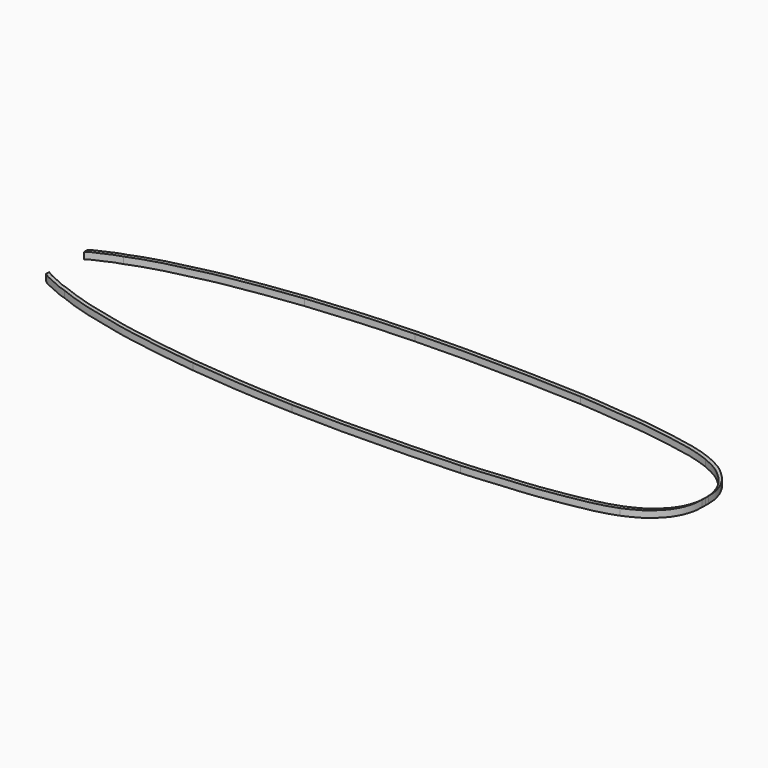
from build123d import *

# Parameters (mm, degrees)
F1_DEPTH = 25


with BuildPart() as f1:
    # F0 (on Top) → F1 (new body)
    with BuildSketch(Plane.XY):
        with BuildLine():
            Line((1680.0913779151, -571.6674201901), (1680.0774248615, -556.5697550774))
            add(Edge.make_bspline(
                [(1680.0774248615, -556.5697550774), (1679.959532706, -562.316875416), (1679.6427719948, -573.6815119363), (1677.9559973128, -589.6482367852), (1671.9416158112, -611.1937525038), (1665.7175358203, -630.2057384714), (1649.1999387753, -658.7888643928), (1634.19991008, -676.479779451), (1613.0698656847, -697.3833068317), (1589.168561335, -717.3172273642), (1557.042322142, -734.859485432), (1536.1277959476, -744.2282900222), (1525.8240908453, -748.8439046694)],
                knots=[0, 0, 0, 0, 0.0810522115, 0.1602959901, 0.2519108121, 0.3416965034, 0.4533023492, 0.5495072043, 0.6552927613, 0.7658251362, 0.884630944, 1, 1, 1, 1], degree=3))
            add(Edge.make_bspline(
                [(1525.8240908453, -748.8439046694), (1520.9143328422, -750.4920177967), (1510.6684952452, -753.9313521657), (1492.8886117624, -760.36139908), (1477.3550772596, -765.5186171491), (1460.6783442632, -768.5296377887), (1443.7541912337, -774.5896497238), (1426.4828431131, -776.3239099017), (1404.0685526248, -781.6651315049), (1367.3994007551, -788.3225763114), (1318.300808924, -797.4866814611), (1266.860132466, -804.7429770618), (1195.8736917115, -813.0319192887), (1152.1833674352, -815.541908763), (1096.6435090665, -821.3018918652), (1042.2588720968, -826.7735922357), (1008.4323175903, -828.9346523367), (991.9508308241, -829.9875968053)],
                knots=[0, 0, 0, 0, 0.0459056837, 0.0957974262, 0.1423705621, 0.1895049005, 0.2379350442, 0.285260399, 0.3396724785, 0.4098119199, 0.4907159265, 0.5750621704, 0.6713772105, 0.7482917328, 0.8331639502, 0.9187116102, 1, 1, 1, 1], degree=3))
            add(Edge.make_bspline(
                [(991.9508308241, -829.9875968053), (945.3347618176, -832.2467041737), (840.6711361721, -837.318911525), (597.3261368323, -840.7321202495), (496.8183550639, -840.977614608), (410.7138135756, -838.7205696222), (365.4399573872, -837.5338130547)],
                knots=[0, 0, 0, 0, 0.2514168302, 0.5644876875, 0.7710071796, 1, 1, 1, 1], degree=3))
            add(Edge.make_bspline(
                [(365.4399573872, -837.5338130547), (300.9920694953, -835.0287898915), (185.1527872494, -830.5262360496), (68.0175690605, -819.317919736), (2.3104109186, -813.3253669371), (-28.8509517839, -810.4834222151)],
                knots=[0, 0, 0, 0, 0.3973459993, 0.7141936978, 1, 1, 1, 1], degree=3))
            add(Edge.make_bspline(
                [(-28.8509517839, -810.4834222151), (-66.9724583954, -806.0046315132), (-140.8309261351, -797.3272037834), (-240.6082186036, -779.8814461057), (-325.5240634953, -767.1998298001), (-418.7926896131, -744.5692856785), (-475.2525690807, -731.7575140909), (-522.2780776943, -717.7608947511), (-567.7172627648, -703.9472926888), (-595.4583026837, -692.7045463144), (-609.1171294382, -687.1689670636)],
                knots=[0, 0, 0, 0, 0.15717668, 0.3045217721, 0.4423500794, 0.5860596972, 0.6983535216, 0.8003417202, 0.901694462, 1, 1, 1, 1], degree=3))
            add(Edge.make_bspline(
                [(-609.1171294382, -687.1689670636), (-619.9222350776, -684.0420639821), (-641.0395332321, -677.9303940328), (-667.6634247297, -663.4606444561), (-691.7272271694, -653.9900653187), (-708.2455744872, -645.7139702192), (-714.7001253353, -640.6102572147), (-717.5893870815, -638.3564808323)],
                knots=[0, 0, 0, 0, 0.2401836949, 0.4696628644, 0.6819727863, 0.8590310206, 1, 1, 1, 1], degree=3))
            Line((-717.5893870815, -638.3564808323), (-717.5893870815, -653.4535028888))
            add(Edge.make_bspline(
                [(-609.1171294382, -702.2659891202), (-619.9222350776, -699.1390860387), (-641.0395332321, -693.0274160894), (-667.6634247297, -678.5576665127), (-691.7272271694, -669.0870873753), (-708.2455744872, -660.8109922758), (-714.7001253353, -655.7072792713), (-717.5893870815, -653.4535028888)],
                knots=[0, 0, 0, 0, 0.2401836949, 0.4696628644, 0.6819727863, 0.8590310206, 1, 1, 1, 1], degree=3))
            add(Edge.make_bspline(
                [(-28.8509517839, -825.5804442717), (-66.9724583954, -821.1016535698), (-140.8309261351, -812.42422584), (-240.6082186036, -794.9784681623), (-325.5240634953, -782.2968518567), (-418.7926896131, -759.666307735), (-475.2525690807, -746.8545361475), (-522.2780776943, -732.8579168077), (-567.7172627648, -719.0443147453), (-595.4583026837, -707.801568371), (-609.1171294382, -702.2659891202)],
                knots=[0, 0, 0, 0, 0.15717668, 0.3045217721, 0.4423500794, 0.5860596972, 0.6983535216, 0.8003417202, 0.901694462, 1, 1, 1, 1], degree=3))
            add(Edge.make_bspline(
                [(365.4399573872, -852.6308351113), (300.9920694953, -850.1258119481), (185.1527872494, -845.6232581062), (68.0175690605, -834.4149417926), (2.3104109186, -828.4223889937), (-28.8509517839, -825.5804442717)],
                knots=[0, 0, 0, 0, 0.3973459993, 0.7141936978, 1, 1, 1, 1], degree=3))
            add(Edge.make_bspline(
                [(991.9508308241, -845.0846188618), (945.3347618176, -847.3437262303), (840.6711361721, -852.4159335816), (597.3261368323, -855.8291423061), (496.8183550639, -856.0746366646), (410.7138135756, -853.8175916788), (365.4399573872, -852.6308351113)],
                knots=[0, 0, 0, 0, 0.2514168302, 0.5644876875, 0.7710071796, 1, 1, 1, 1], degree=3))
            add(Edge.make_bspline(
                [(1525.8240908453, -763.940926726), (1520.9143328422, -765.5890398533), (1510.6684952452, -769.0283742223), (1492.8886117624, -775.4584211365), (1477.3550772596, -780.6156392057), (1460.6783442632, -783.6266598453), (1443.7541912337, -789.6866717803), (1426.4828431131, -791.4209319583), (1404.0685526248, -796.7621535615), (1367.3994007551, -803.4195983679), (1318.300808924, -812.5837035177), (1266.860132466, -819.8399991184), (1195.8736917115, -828.1289413453), (1152.1833674352, -830.6389308195), (1096.6435090665, -836.3989139217), (1042.2588720968, -841.8706142922), (1008.4323175903, -844.0316743933), (991.9508308241, -845.0846188618)],
                knots=[0, 0, 0, 0, 0.0459056837, 0.0957974262, 0.1423705621, 0.1895049005, 0.2379350442, 0.285260399, 0.3396724785, 0.4098119199, 0.4907159265, 0.5750621704, 0.6713772105, 0.7482917328, 0.8331639502, 0.9187116102, 1, 1, 1, 1], degree=3))
            add(Edge.make_bspline(
                [(1680.0913779151, -571.6674201901), (1679.9734861325, -577.4145223437), (1679.6364798397, -588.7782878472), (1677.9579597004, -604.7453411506), (1671.9410743397, -626.2907518495), (1665.7177198175, -645.3027682447), (1649.1998933253, -673.8858845461), (1634.1999227649, -691.5768020298), (1613.0698619015, -712.4803287716), (1589.1685627804, -732.4142493119), (1557.0423204483, -749.9565080936), (1536.1277988232, -759.3253107907), (1525.8240908453, -763.940926726)],
                knots=[0, 0, 0, 0, 0.081051955, 0.1602957558, 0.2519106034, 0.3416963197, 0.4533021966, 0.5495070786, 0.6552926651, 0.7658250708, 0.8846309118, 1, 1, 1, 1], degree=3))
        make_face()
    extrude(amount=F1_DEPTH)


with BuildPart() as f1b:
    # F0 (on Top) → F1, piece 2 (new body)
    with BuildSketch(Plane.XY):
        with BuildLine():
            add(Edge.make_bspline(
                [(1680.0774248615, -556.5697550774), (1679.959532706, -550.8226347387), (1679.6427719948, -539.4579982185), (1677.9559973128, -523.4912733695), (1671.9416158112, -501.945757651), (1665.7175358203, -482.9337716834), (1649.1999387753, -454.3506457619), (1634.19991008, -436.6597307037), (1613.0698656847, -415.7562033231), (1589.168561335, -395.8222827905), (1557.042322142, -378.2800247227), (1536.1277959476, -368.9112201325), (1525.8240908453, -364.2956054853)],
                knots=[0, 0, 0, 0, 0.0810522115, 0.1602959901, 0.2519108121, 0.3416965034, 0.4533023492, 0.5495072043, 0.6552927613, 0.7658251362, 0.884630944, 1, 1, 1, 1], degree=3))
            Line((1680.0774248615, -556.5697550774), (1680.0913779151, -541.4720899647))
            add(Edge.make_bspline(
                [(1680.0913779151, -541.4720899647), (1679.9734861325, -535.7249878111), (1679.6364798397, -524.3612223075), (1677.9579597004, -508.3941690041), (1671.9410743397, -486.8487583053), (1665.7177198175, -467.83674191), (1649.1998933253, -439.2536256087), (1634.1999227649, -421.562708125), (1613.0698619015, -400.6591813831), (1589.1685627804, -380.7252608429), (1557.0423204483, -363.1830020612), (1536.1277988232, -353.8141993641), (1525.8240908453, -349.1985834287)],
                knots=[0, 0, 0, 0, 0.081051955, 0.1602957558, 0.2519106034, 0.3416963197, 0.4533021966, 0.5495070786, 0.6552926651, 0.7658250708, 0.8846309118, 1, 1, 1, 1], degree=3))
            add(Edge.make_bspline(
                [(1525.8240908453, -349.1985834287), (1520.9143328422, -347.5504703014), (1510.6684952452, -344.1111359325), (1492.8886117624, -337.6810890182), (1477.3550772596, -332.523870949), (1460.6783442632, -329.5128503094), (1443.7541912337, -323.4528383744), (1426.4828431131, -321.7185781964), (1404.0685526248, -316.3773565932), (1367.3994007551, -309.7199117868), (1318.300808924, -300.555806637), (1266.860132466, -293.2995110363), (1195.8736917115, -285.0105688094), (1152.1833674352, -282.5005793352), (1096.6435090665, -276.740596233), (1042.2588720968, -271.2688958625), (1008.4323175903, -269.1078357614), (991.9508308241, -268.0548912929)],
                knots=[0, 0, 0, 0, 0.0459056837, 0.0957974262, 0.1423705621, 0.1895049005, 0.2379350442, 0.285260399, 0.3396724785, 0.4098119199, 0.4907159265, 0.5750621704, 0.6713772105, 0.7482917328, 0.8331639502, 0.9187116102, 1, 1, 1, 1], degree=3))
            add(Edge.make_bspline(
                [(991.9508308241, -268.0548912929), (945.3347618176, -265.7957839245), (840.6711361721, -260.7235765732), (597.3261368323, -257.3103678486), (496.8183550639, -257.0648734901), (410.7138135756, -259.321918476), (365.4399573872, -260.5086750434)],
                knots=[0, 0, 0, 0, 0.2514168302, 0.5644876875, 0.7710071796, 1, 1, 1, 1], degree=3))
            add(Edge.make_bspline(
                [(365.4399573872, -260.5086750434), (300.9920694953, -263.0136982066), (185.1527872494, -267.5162520485), (68.0175690605, -278.7245683622), (2.3104109186, -284.717121161), (-28.8509517839, -287.559065883)],
                knots=[0, 0, 0, 0, 0.3973459993, 0.7141936978, 1, 1, 1, 1], degree=3))
            add(Edge.make_bspline(
                [(-28.8509517839, -287.559065883), (-66.9724583954, -292.0378565849), (-140.8309261351, -300.7152843147), (-240.6082186036, -318.1610419925), (-325.5240634953, -330.8426582981), (-418.7926896131, -353.4732024197), (-475.2525690807, -366.2849740072), (-522.2780776943, -380.2815933471), (-567.7172627648, -394.0951954094), (-595.4583026837, -405.3379417837), (-609.1171294382, -410.8735210346)],
                knots=[0, 0, 0, 0, 0.15717668, 0.3045217721, 0.4423500794, 0.5860596972, 0.6983535216, 0.8003417202, 0.901694462, 1, 1, 1, 1], degree=3))
            add(Edge.make_bspline(
                [(-609.1171294382, -410.8735210346), (-619.9222350776, -414.000424116), (-641.0395332321, -420.1120940653), (-667.6634247297, -434.5818436421), (-691.7272271694, -444.0524227794), (-708.2455744872, -452.3285178789), (-714.7001253353, -457.4322308834), (-717.5893870815, -459.6860072659)],
                knots=[0, 0, 0, 0, 0.2401836949, 0.4696628644, 0.6819727863, 0.8590310206, 1, 1, 1, 1], degree=3))
            Line((-717.5893870815, -459.6860072659), (-717.5893870815, -474.7830293225))
            add(Edge.make_bspline(
                [(-609.1171294382, -425.9705430911), (-619.9222350776, -429.0974461726), (-641.0395332321, -435.2091161219), (-667.6634247297, -449.6788656987), (-691.7272271694, -459.149444836), (-708.2455744872, -467.4255399355), (-714.7001253353, -472.52925294), (-717.5893870815, -474.7830293225)],
                knots=[0, 0, 0, 0, 0.2401836949, 0.4696628644, 0.6819727863, 0.8590310206, 1, 1, 1, 1], degree=3))
            add(Edge.make_bspline(
                [(-28.8509517839, -302.6560879396), (-66.9724583954, -307.1348786415), (-140.8309261351, -315.8123063713), (-240.6082186036, -333.258064049), (-325.5240634953, -345.9396803546), (-418.7926896131, -368.5702244763), (-475.2525690807, -381.3819960638), (-522.2780776943, -395.3786154036), (-567.7172627648, -409.192217466), (-595.4583026837, -420.4349638403), (-609.1171294382, -425.9705430911)],
                knots=[0, 0, 0, 0, 0.15717668, 0.3045217721, 0.4423500794, 0.5860596972, 0.6983535216, 0.8003417202, 0.901694462, 1, 1, 1, 1], degree=3))
            add(Edge.make_bspline(
                [(365.4399573872, -275.6056971), (300.9920694953, -278.1107202632), (185.1527872494, -282.6132741051), (68.0175690605, -293.8215904187), (2.3104109186, -299.8141432176), (-28.8509517839, -302.6560879396)],
                knots=[0, 0, 0, 0, 0.3973459993, 0.7141936978, 1, 1, 1, 1], degree=3))
            add(Edge.make_bspline(
                [(991.9508308241, -283.1519133495), (945.3347618176, -280.892805981), (840.6711361721, -275.8205986297), (597.3261368323, -272.4073899052), (496.8183550639, -272.1618955467), (410.7138135756, -274.4189405325), (365.4399573872, -275.6056971)],
                knots=[0, 0, 0, 0, 0.2514168302, 0.5644876875, 0.7710071796, 1, 1, 1, 1], degree=3))
            add(Edge.make_bspline(
                [(1525.8240908453, -364.2956054853), (1520.9143328422, -362.647492358), (1510.6684952452, -359.208157989), (1492.8886117624, -352.7781110748), (1477.3550772596, -347.6208930056), (1460.6783442632, -344.609872366), (1443.7541912337, -338.549860431), (1426.4828431131, -336.815600253), (1404.0685526248, -331.4743786498), (1367.3994007551, -324.8169338434), (1318.300808924, -315.6528286936), (1266.860132466, -308.3965330929), (1195.8736917115, -300.107590866), (1152.1833674352, -297.5976013918), (1096.6435090665, -291.8376182896), (1042.2588720968, -286.3659179191), (1008.4323175903, -284.204857818), (991.9508308241, -283.1519133495)],
                knots=[0, 0, 0, 0, 0.0459056837, 0.0957974262, 0.1423705621, 0.1895049005, 0.2379350442, 0.285260399, 0.3396724785, 0.4098119199, 0.4907159265, 0.5750621704, 0.6713772105, 0.7482917328, 0.8331639502, 0.9187116102, 1, 1, 1, 1], degree=3))
        make_face()
    extrude(amount=F1_DEPTH)


solid = Compound([f1.part, f1b.part])
